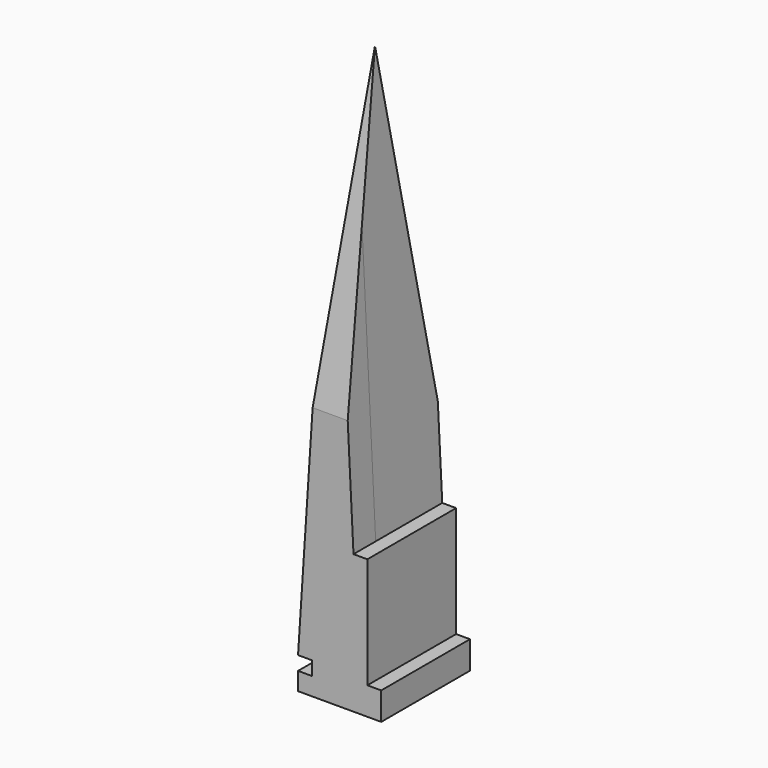
from build123d import *

# Parameters (mm, degrees)
F1_DEPTH = 76.2
F2_DEPTH = 25.4
F4_DEPTH = 127


with BuildPart() as f1:
    # F0 (on Front) → F1 (new body)
    with BuildSketch(Plane.XZ):
        Polygon((0, 16.379364), (0, 0), (76.2, 0), (76.2, 25.4), (63.5, 25.4), (63.5, 127), (50.8, 127), (31.600004, 510.643689), (0, 29.079364), (12.7, 29.079364), (12.7, 16.379364), align=None)
    extrude(amount=F1_DEPTH)

    # F0 (on Front) + F1_face (on face) → F2 (join)
    with BuildSketch(Plane.XZ):
        Polygon((0, 16.379364), (0, 0), (76.2, 0), (76.2, 25.4), (63.5, 25.4), (63.5, 127), (50.8, 127), (31.600004, 510.643689), (0, 29.079364), (12.7, 29.079364), (12.7, 16.379364), align=None)
    with BuildSketch(Plane(origin=(32.20504, -76.2, 161.502692), x_dir=(1, 0, 0), z_dir=(0, -1, 0))):
        Polygon((-32.20504, -132.423328), (-19.50504, -132.423328), (-19.50504, -145.123328), (-32.20504, -145.123328), (-32.20504, -161.502692), (43.99496, -161.502692), (43.99496, -136.102692), (31.29496, -136.102692), (31.29496, -34.502692), (18.59496, -34.502692), (-0.605036, 349.140998), align=None)
    extrude(amount=F2_DEPTH)

    # F3 (on Right) → F4 (cut, symmetric)
    with BuildSketch(Plane.YZ):
        Polygon((-53.018704, 510.999203), (36.268413, 0), (28.625131, 603.81484), (-150.899715, 678.91259), (-142.305821, 0), align=None)
    extrude(amount=F4_DEPTH, both=True, mode=Mode.SUBTRACT)


solid = f1.part
